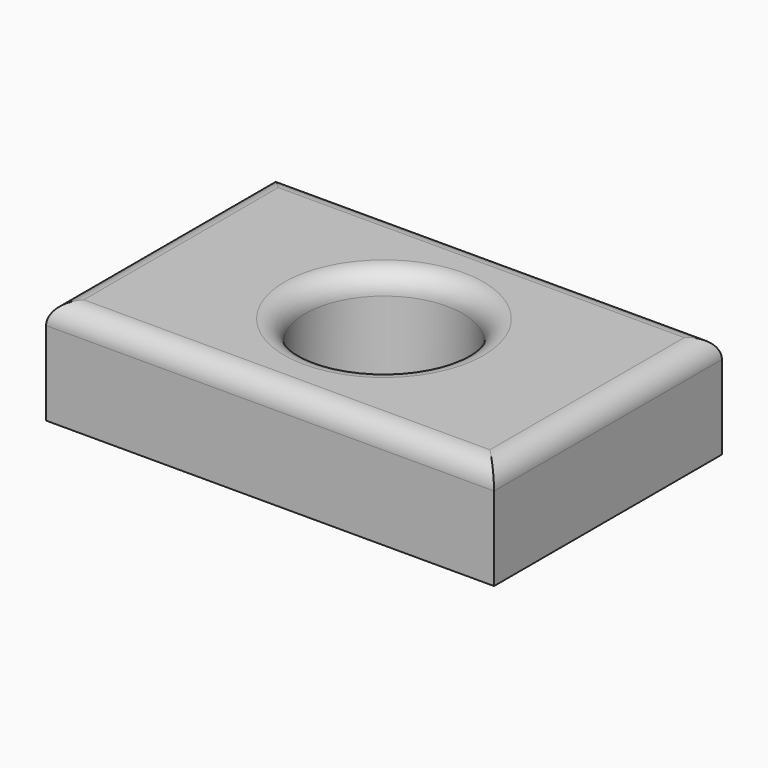
from build123d import *

# Parameters (mm, degrees)
F0_W     = 108.715884
F0_H     = 69.138416
F0_R     = 19.075382
F1_DEPTH = 25.4
F2_R     = 5.08


with BuildPart() as f1:
    # F0 (on Top) → F1 (new body)
    with BuildSketch(Plane.XY):
        Rectangle(F0_W, F0_H)
        Circle(F0_R, mode=Mode.SUBTRACT)
    extrude(amount=F1_DEPTH)

    # F2
    f2_edges = [f1.edges().sort_by_distance(p)[0] for p in [
        (0, -34.569208, 25.4),
        (-54.357942, 0, 25.4),
        (0, 34.569208, 25.4),
        (54.357942, 0, 25.4),
        (-19.075382, 0, 25.4),
    ]]
    fillet(f2_edges, radius=F2_R)


solid = f1.part
